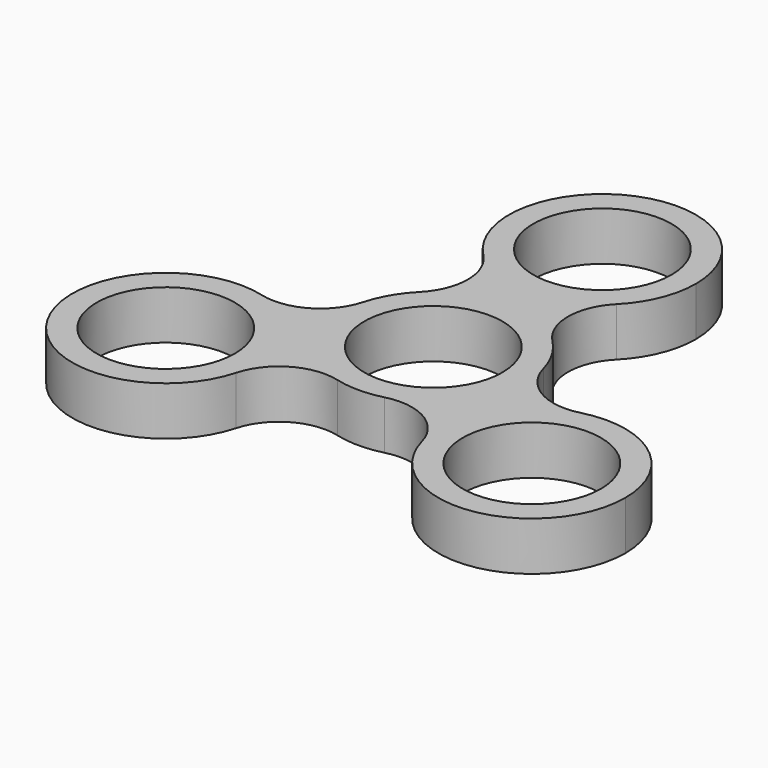
from build123d import *

# Parameters (mm, degrees)
F0_R     = 8.5
F1_DEPTH = 6


with BuildPart() as f1:
    # F0 (on Top) → F1 (new body)
    with BuildSketch(Plane.XY):
        with BuildLine():
            ThreePointArc((8.182061, 17.918919), (10.638226, 21.632146), (11.5, 26))
            ThreePointArc((11.5, 26), (-4.367854, 36.638226), (-8.182061, 17.918919))
            ThreePointArc((-8.182061, 17.918919), (0, 14.5), (8.182061, 17.918919))
        make_face()
        with Locations((0, 26)):
            Circle(F0_R, mode=Mode.SUBTRACT)
        with BuildLine():
            ThreePointArc((8.182061, 17.918919), (0, 14.5), (-8.182061, 17.918919))
            ThreePointArc((-8.182061, 17.918919), (-6.162447, 13), (-8.182061, 8.081081))
            ThreePointArc((-8.182061, 8.081081), (0, 11.5), (8.182061, 8.081081))
            ThreePointArc((8.182061, 8.081081), (6.162447, 13), (8.182061, 17.918919))
        make_face()
        with BuildLine():
            ThreePointArc((8.182061, 8.081081), (0, 11.5), (-8.182061, 8.081081))
            ThreePointArc((-8.182061, 8.081081), (-9.959292, 5.75), (-11.089452, 3.045332))
            ThreePointArc((-11.089452, 3.045332), (-9.959292, -5.75), (-2.907391, -11.126414))
            ThreePointArc((-2.907391, -11.126414), (0, -11.5), (2.907391, -11.126414))
            ThreePointArc((2.907391, -11.126414), (9.101785, -7.029047), (11.5, 0))
            ThreePointArc((11.5, 0), (11.396901, 1.536441), (11.089452, 3.045332))
            ThreePointArc((11.089452, 3.045332), (9.959292, 5.75), (8.182061, 8.081081))
        make_face()
        Circle(F0_R, mode=Mode.SUBTRACT)
        with BuildLine():
            ThreePointArc((-2.907391, -11.126414), (-9.959292, -5.75), (-11.089452, 3.045332))
            ThreePointArc((-11.089452, 3.045332), (-14.339554, -1.163165), (-19.60927, -1.873586))
            ThreePointArc((-19.60927, -1.873586), (-13.414875, -5.970953), (-11.01666, -13))
            ThreePointArc((-11.01666, -13), (-11.11976, -14.536441), (-11.427208, -16.045332))
            ThreePointArc((-11.427208, -16.045332), (-8.177107, -11.836835), (-2.907391, -11.126414))
        make_face()
        with BuildLine():
            ThreePointArc((-11.01666, -13), (-13.414875, -5.970953), (-19.60927, -1.873586))
            ThreePointArc((-19.60927, -1.873586), (-32.475953, -18.75), (-11.427208, -16.045332))
            ThreePointArc((-11.427208, -16.045332), (-11.11976, -14.536441), (-11.01666, -13))
        make_face()
        with Locations((-22.51666, -13)):
            Circle(F0_R, mode=Mode.SUBTRACT)
        with BuildLine():
            ThreePointArc((19.60927, -1.873586), (14.339554, -1.163165), (11.089452, 3.045332))
            ThreePointArc((11.089452, 3.045332), (11.396901, 1.536441), (11.5, 0))
            ThreePointArc((11.5, 0), (9.101785, -7.029047), (2.907391, -11.126414))
            ThreePointArc((2.907391, -11.126414), (8.177107, -11.836835), (11.427208, -16.045332))
            ThreePointArc((11.427208, -16.045332), (12.557368, -7.25), (19.60927, -1.873586))
        make_face()
        with BuildLine():
            ThreePointArc((34.01666, -13), (29.545708, -3.898215), (19.60927, -1.873586))
            ThreePointArc((19.60927, -1.873586), (12.557368, -7.25), (11.427208, -16.045332))
            ThreePointArc((11.427208, -16.045332), (24.053101, -24.396901), (34.01666, -13))
        make_face()
        with Locations((22.51666, -13)):
            Circle(F0_R, mode=Mode.SUBTRACT)
    extrude(amount=F1_DEPTH)


solid = f1.part
